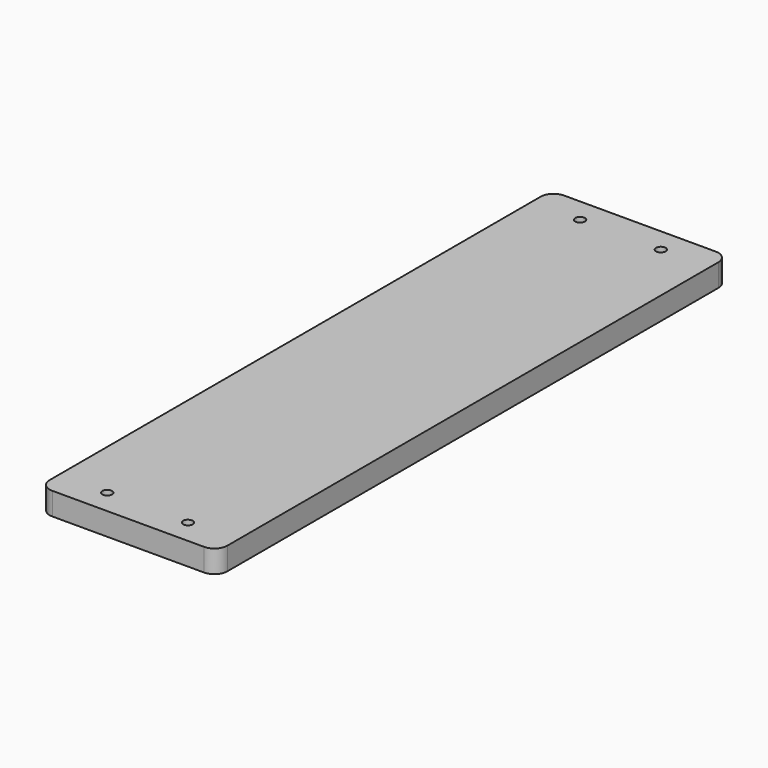
from build123d import *

# Parameters (mm, degrees)
SKETCH_W     = 55
SKETCH_H     = 198
PAD_DEPTH    = 7
SKETCH001_R  = 1.5
POCKET_DEPTH = 7.001
FILLET_R     = 4


with BuildPart() as part:
    # Sketch → Pad (new body)
    with BuildSketch(Plane.XY):
        Rectangle(SKETCH_W, SKETCH_H)
    extrude(amount=PAD_DEPTH)

    # Sketch001 (on Face6 of Pad) → Pocket (cut, through all)
    with BuildSketch(Plane.XY.offset(7)):
        with Locations((-12.5, 91.5)):
            Circle(SKETCH001_R)
        with Locations((12.5, 91.5)):
            Circle(SKETCH001_R)
        with Locations((-12.5, -91.5)):
            Circle(SKETCH001_R)
        with Locations((12.5, -91.5)):
            Circle(SKETCH001_R)
    extrude(amount=-POCKET_DEPTH, mode=Mode.SUBTRACT)

    # Fillet
    fillet_edges = [part.edges().sort_by_distance(p)[0] for p in [
        (-27.5, 99, 3.5),
        (-27.5, -99, 3.5),
        (27.5, -99, 3.5),
        (27.5, 99, 3.5),
    ]]
    fillet(fillet_edges, radius=FILLET_R)


solid = part.part
